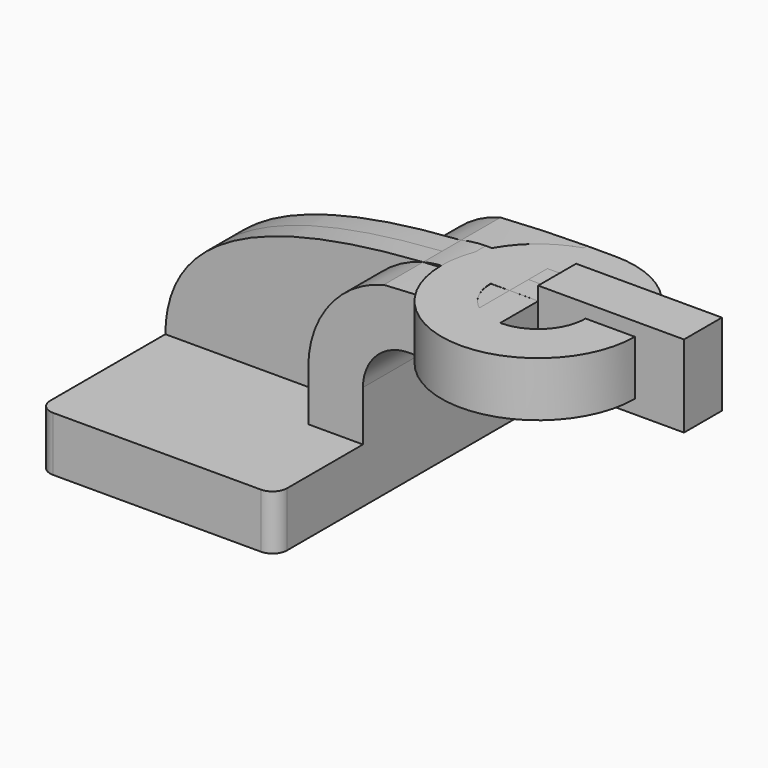
from build123d import *

# Parameters (mm, degrees)
F1_DEPTH  = 63.5
F2_DEPTH  = 25.4
F3_DEPTH  = 8.255
F3_FACE_W = 17.145
F3_FACE_H = 19.05
F5_R      = 5.08


with BuildPart() as f1:
    # F0 (on Front) → F1 (new body, symmetric)
    with BuildSketch(Plane.XZ):
        Polygon((22.225, 9.525), (-41.275, 9.525), (-41.275, -9.525), (41.275, -9.525), (41.275, 9.525), align=None)
    extrude(amount=F1_DEPTH, both=True)

    # F0 (on Front) → F2 (join, symmetric)
    with BuildSketch(Plane.XZ):
        with BuildLine():
            Line((22.225, 27.0002), (22.225, 9.525))
            Line((22.225, 9.525), (41.275, 9.525))
            Line((41.275, 9.525), (41.275, 27.0002))
            ThreePointArc((41.275, 27.0002), (45.9246798487, 38.2255201513), (57.15, 42.8752))
            Line((57.15, 42.8752), (88.5989319826, 42.8752))
            Line((88.5989319826, 42.8752), (88.5989319826, 61.9252))
            Line((88.5989319826, 61.9252), (78.620570292, 61.9252))
            add(Edge.make_bspline(
                [(78.620570292, 61.9252), (68.1221807027, 61.8456885377), (58.0598709285, 61.5059481055), (48.5414196568, 60.8476219029)],
                knots=[6.3360896089, 6.3360896089, 6.3360896089, 6.3360896089, 26.5881828435, 26.5881828435, 26.5881828435, 26.5881828435], degree=3))
            ThreePointArc((48.5414196568, 60.8476219029), (29.5781820196, 48.4373284984), (22.225, 27.0002))
        make_face()
    extrude(amount=F2_DEPTH, both=True)

    # F0 (on Front) → F3 (join, symmetric)
    with BuildSketch(Plane.XZ):
        with BuildLine():
            add(Edge.make_bspline(
                [(48.5414196568, 60.8476219029), (-4.783802037, 57.1594808708), (-41.0396070564, 43.4722808258), (-41.275, 9.525)],
                knots=[26.5881828435, 26.5881828435, 26.5881828435, 26.5881828435, 140.0464893122, 140.0464893122, 140.0464893122, 140.0464893122], degree=3))
            Line((-41.275, 9.525), (22.225, 9.525))
            Line((22.225, 9.525), (22.225, 27.0002))
            ThreePointArc((22.225, 27.0002), (29.5781820196, 48.4373284984), (48.5414196568, 60.8476219029))
        make_face()
        Polygon((22.225, 9.525), (-41.275, 9.525), (-41.275, -9.525), (41.275, -9.525), (41.275, 9.525), align=None)
        with BuildLine():
            Line((22.225, 27.0002), (22.225, 9.525))
            Line((22.225, 9.525), (41.275, 9.525))
            Line((41.275, 9.525), (41.275, 27.0002))
            ThreePointArc((41.275, 27.0002), (45.9246798487, 38.2255201513), (57.15, 42.8752))
            Line((57.15, 42.8752), (88.5989319826, 42.8752))
            Line((88.5989319826, 42.8752), (88.5989319826, 61.9252))
            Line((88.5989319826, 61.9252), (78.620570292, 61.9252))
            add(Edge.make_bspline(
                [(78.620570292, 61.9252), (68.1221807027, 61.8456885377), (58.0598709285, 61.5059481055), (48.5414196568, 60.8476219029)],
                knots=[6.3360896089, 6.3360896089, 6.3360896089, 6.3360896089, 26.5881828435, 26.5881828435, 26.5881828435, 26.5881828435], degree=3))
            ThreePointArc((48.5414196568, 60.8476219029), (29.5781820196, 48.4373284984), (22.225, 27.0002))
        make_face()
        with BuildLine():
            ThreePointArc((57.15, 61.9252), (52.8121194668, 61.6547583939), (48.5414196568, 60.8476219029))
            add(Edge.make_bspline(
                [(78.620570292, 61.9252), (68.1221807027, 61.8456885377), (58.0598709285, 61.5059481055), (48.5414196568, 60.8476219029)],
                knots=[6.3360896089, 6.3360896089, 6.3360896089, 6.3360896089, 26.5881828435, 26.5881828435, 26.5881828435, 26.5881828435], degree=3))
            Line((78.620570292, 61.9252), (57.15, 61.9252))
        make_face()
        with BuildLine():
            add(Edge.make_bspline(
                [(88.5989319826, 61.9252), (85.23232743, 61.9494803379), (81.9051066812, 61.9500760335), (78.620570292, 61.9252)],
                knots=[0, 0, 0, 0, 6.3360896089, 6.3360896089, 6.3360896089, 6.3360896089], degree=3))
            Line((78.620570292, 61.9252), (88.5989319826, 61.9252))
        make_face()
        Polygon((88.5989319826, 66.675), (88.5989319826, 61.9252), (88.5989319826, 42.8752), (88.5989319826, 38.1), (139.3989319826, 38.1), (139.3989319826, 66.675), align=None)
    extrude(amount=F3_DEPTH, both=True)

    # F3_face (on face) → F4 (revolve)
    with BuildSketch(Plane(origin=(88.5989319826, 16.8275, 52.4002), x_dir=(0, 1, 0), z_dir=(1, 0, 0))):
        Rectangle(F3_FACE_W, F3_FACE_H)
    revolve(axis=Axis((88.5989319826, -8.255, 52.4002), (0, 0, 1)))

    # F5
    f5_edges = [f1.edges().sort_by_distance(p)[0] for p in [
        (-41.275, -63.5, 0),
        (41.275, -63.5, 0),
        (41.275, 63.5, 0),
        (-41.275, 63.5, 0),
    ]]
    fillet(f5_edges, radius=F5_R)


solid = f1.part
